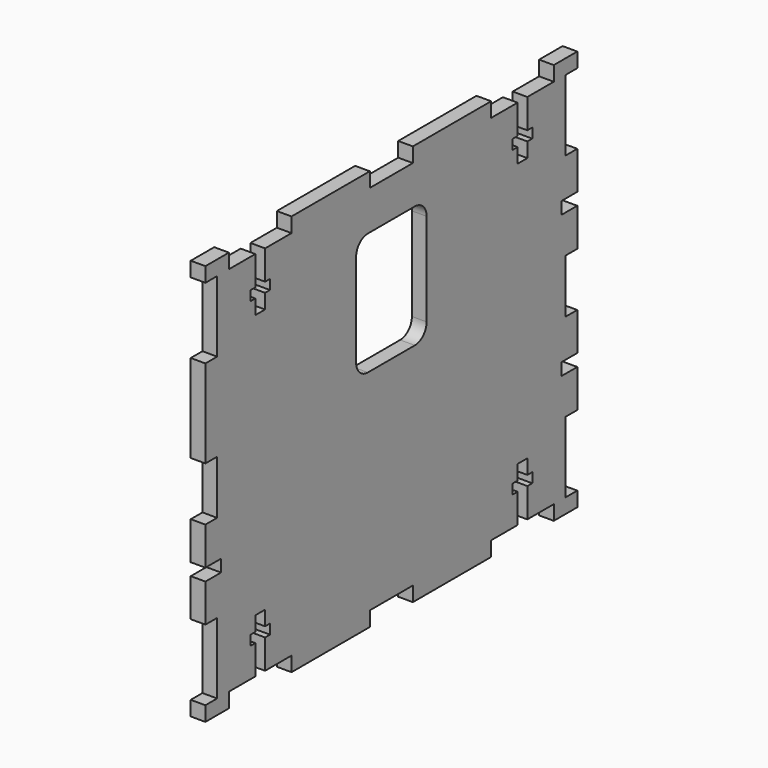
from build123d import *

# Parameters (mm, degrees)
SKETCH024_W                   = 95
SKETCH024_H                   = 82
PAD006_DEPTH                  = 3
SKETCH025_W                   = 11
SKETCH025_H                   = 3
SKETCH025_W_2                 = 16
SKETCH025_W_3                 = 3
SKETCH025_H_2                 = 11
SKETCH025_H_3                 = 14.5
POCKET018_DEPTH               = 254.062745
POCKET019_DEPTH               = 254.062745
POCKET019_MIRRORED022_2_DEPTH = 254.062745
POCKET020_DEPTH               = 3.001
SKETCH025_MIRRORED024_2_W     = 11
SKETCH025_MIRRORED024_2_H     = 3
SKETCH025_MIRRORED024_2_W_2   = 16
SKETCH025_MIRRORED024_2_W_3   = 3
SKETCH025_MIRRORED024_2_H_2   = 11
SKETCH025_MIRRORED024_2_H_3   = 14.5
POCKET018_MIRRORED024_2_DEPTH = 254.062745
SKETCH028_W                   = 4
SKETCH028_H                   = 2.5
POCKET021_DEPTH               = 3.001


with BuildPart() as part:
    # Sketch024 → Pad006 (new body)
    with BuildSketch(Plane.YZ):
        Rectangle(SKETCH024_W, SKETCH024_H)
    extrude(amount=PAD006_DEPTH)

    # Sketch025 → Pocket018 (cut, through all)
    with BuildSketch(Plane.YZ):
        with Locations((0, 39.5)):
            Rectangle(SKETCH025_W, SKETCH025_H)
        with Locations((33.5, 39.5)):
            Rectangle(SKETCH025_W_2, SKETCH025_H)
        with Locations((46, 0)):
            Rectangle(SKETCH025_W_3, SKETCH025_H_2)
        with Locations((46, 30.75)):
            Rectangle(SKETCH025_W_3, SKETCH025_H_3)
    pocket018 = extrude(amount=POCKET018_DEPTH, mode=Mode.SUBTRACT)

    # Sketch026 → Pocket019 (cut, through all)
    with BuildSketch(Plane.YZ):
        Polygon((-32.25, 41), (-32.25, 32), (-31, 32), (-31, 30), (-32.25, 30), (-32.25, 27), (-34.75, 27), (-34.75, 30), (-36, 30), (-36, 32), (-34.75, 32), (-34.75, 41), align=None)
    pocket019 = extrude(amount=POCKET019_DEPTH, mode=Mode.SUBTRACT)

    # Sketch026 Mirrored022 2 → Pocket019 Mirrored022 2 (cut, through all)
    with BuildSketch(Plane(origin=(0, 0, 0), x_dir=(0, -1, 0), z_dir=(-1, 0, 0))):
        Polygon((-32.25, 41), (-32.25, 32), (-31, 32), (-31, 30), (-32.25, 30), (-32.25, 27), (-34.75, 27), (-34.75, 30), (-36, 30), (-36, 32), (-34.75, 32), (-34.75, 41), align=None)
    pocket019_mirrored022_2 = extrude(amount=-POCKET019_MIRRORED022_2_DEPTH, mode=Mode.SUBTRACT)

    # Mirrored023: Pocket019, Pocket019 Mirrored022 2 across Sketch026 H_Axis
    add(pocket019.mirror(Plane.XY), mode=Mode.SUBTRACT)
    add(pocket019_mirrored022_2.mirror(Plane.XY), mode=Mode.SUBTRACT)

    # Sketch027 → Pocket020 (cut, through all)
    with BuildSketch(Plane.YZ):
        with BuildLine():
            Line((-6, 30), (6, 30))
            ThreePointArc((9, 27), (8.12132, 29.12132), (6, 30))
            Line((9, 27), (9, 8))
            ThreePointArc((6, 5), (8.12132, 5.87868), (9, 8))
            Line((6, 5), (-6, 5))
            ThreePointArc((-9, 8), (-8.12132, 5.87868), (-6, 5))
            Line((-9, 8), (-9, 27))
            ThreePointArc((-6, 30), (-8.12132, 29.12132), (-9, 27))
        make_face()
    extrude(amount=POCKET020_DEPTH, mode=Mode.SUBTRACT)

    # Sketch025 Mirrored024 2 → Pocket018 Mirrored024 2 (cut, through all)
    with BuildSketch(Plane(origin=(0, 0, 0), x_dir=(0, -1, 0), z_dir=(-1, 0, 0))):
        with Locations((0, 39.5)):
            Rectangle(SKETCH025_MIRRORED024_2_W, SKETCH025_MIRRORED024_2_H)
        with Locations((33.5, 39.5)):
            Rectangle(SKETCH025_MIRRORED024_2_W_2, SKETCH025_MIRRORED024_2_H)
        with Locations((46, 0)):
            Rectangle(SKETCH025_MIRRORED024_2_W_3, SKETCH025_MIRRORED024_2_H_2)
        with Locations((46, 30.75)):
            Rectangle(SKETCH025_MIRRORED024_2_W_3, SKETCH025_MIRRORED024_2_H_3)
    pocket018_mirrored024_2 = extrude(amount=-POCKET018_MIRRORED024_2_DEPTH, mode=Mode.SUBTRACT)

    # Mirrored025: Pocket018, Pocket018 Mirrored024 2 across Sketch025 H_Axis
    add(pocket018.mirror(Plane.XY), mode=Mode.SUBTRACT)
    add(pocket018_mirrored024_2.mirror(Plane.XY), mode=Mode.SUBTRACT)

    # Sketch028 → Pocket021 (cut, through all)
    with BuildSketch(Plane.YZ):
        with Locations((-45.5, -14.5)):
            Rectangle(SKETCH028_W, SKETCH028_H)
        with Locations((45.5, -14.5)):
            Rectangle(SKETCH028_W, SKETCH028_H)
        with Locations((45.5, 14.5)):
            Rectangle(SKETCH028_W, SKETCH028_H)
    extrude(amount=POCKET021_DEPTH, mode=Mode.SUBTRACT)


with BuildPart() as part_1:
    # Body006 placement: moved
    add(part.part.moved(Location((-60, 0, 0))))


solid = part_1.part
